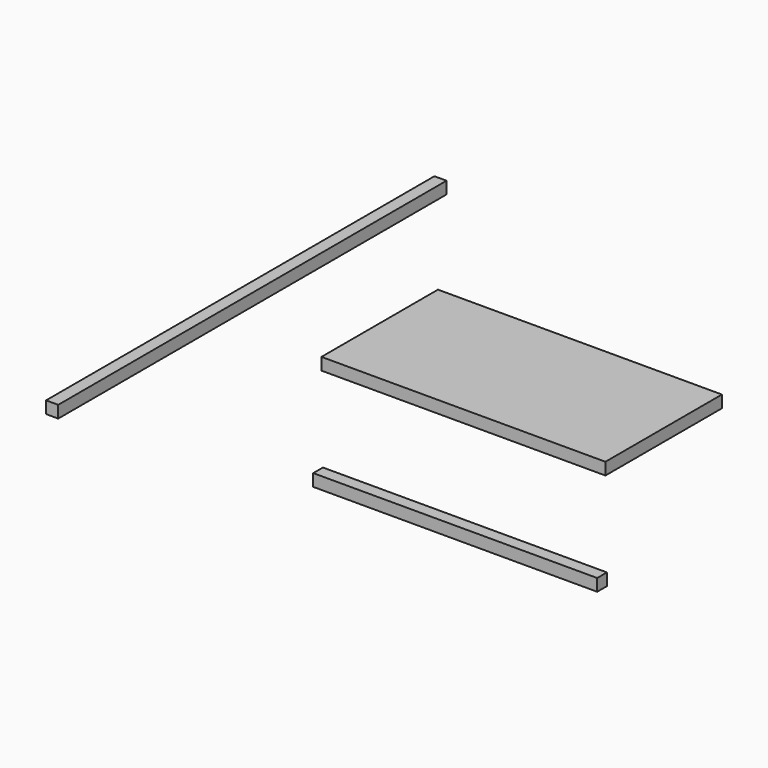
from build123d import *

# Parameters (mm, degrees)
F0_W     = 117
F0_H     = 60
F1_DEPTH = 5
F3_W     = 5
F3_H     = 200
F4_DEPTH = 5
F5_W     = 117
F5_H     = 5
F6_DEPTH = 5


with BuildPart() as f1:
    # F0 (on Top) → F1 (new body)
    with BuildSketch(Plane.XY):
        Rectangle(F0_W, F0_H)
    extrude(amount=F1_DEPTH)


with BuildPart() as f4:
    # F3 (on face) → F4 (new body)
    with BuildSketch(Plane.XY):
        with Locations((-106.257943, -9.008029)):
            Rectangle(F3_W, F3_H)
    extrude(amount=F4_DEPTH)


with BuildPart() as f6:
    # F5 (on face) → F6 (new body)
    with BuildSketch(Plane.XY):
        with Locations((48.535305, -92.398651)):
            Rectangle(F5_W, F5_H)
    extrude(amount=F6_DEPTH)


solid = Compound([f1.part, f4.part, f6.part])
